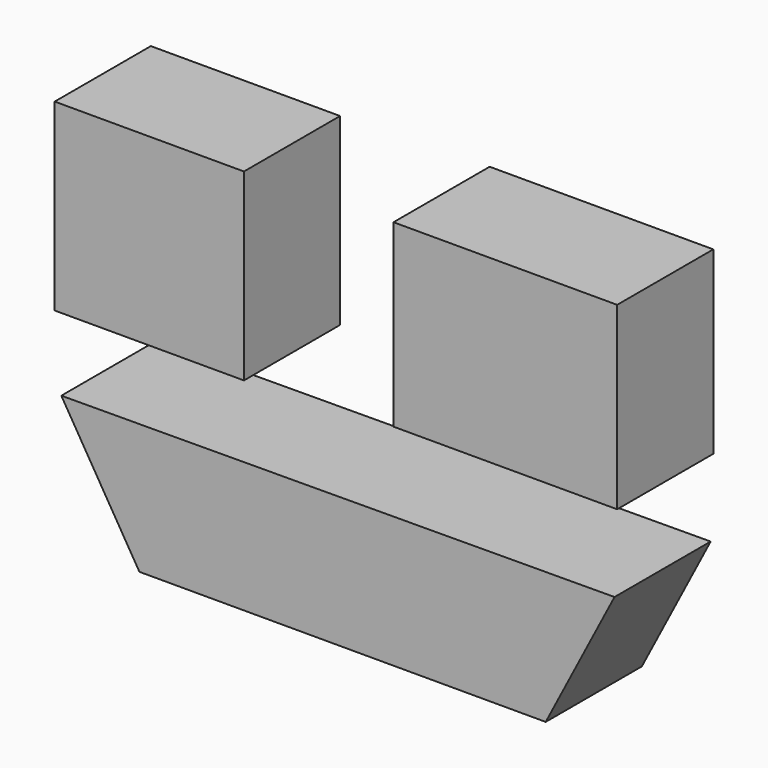
from build123d import *

# Parameters (mm, degrees)
F0_W     = 40.004999
F0_H     = 38.885979
F1_DEPTH = 25.4
F2_W     = 47.278639
F2_H     = 38.046714
F3_DEPTH = 25.4
F5_DEPTH = 25.4


with BuildPart() as f1:
    # F0 (on Front) → F1 (new body)
    with BuildSketch(Plane.XZ):
        with Locations((-35.528917, 22.660175)):
            Rectangle(F0_W, F0_H)
    extrude(amount=F1_DEPTH)


with BuildPart() as f3:
    # F2 (on Front) → F3 (new body)
    with BuildSketch(Plane.XZ):
        with Locations((39.725245, 23.919074)):
            Rectangle(F2_W, F2_H)
    extrude(amount=F3_DEPTH)


with BuildPart() as f5:
    # F4 (on Front) → F5 (new body)
    with BuildSketch(Plane.XZ):
        Polygon((62.805057, -11.609843), (-54.13264, -12.169353), (-37.627079, -39.585367), (-7.133757, -39.585367), (37.627082, -39.585367), (48.257779, -39.585367), align=None)
    extrude(amount=F5_DEPTH)


solid = Compound([f1.part, f3.part, f5.part])
